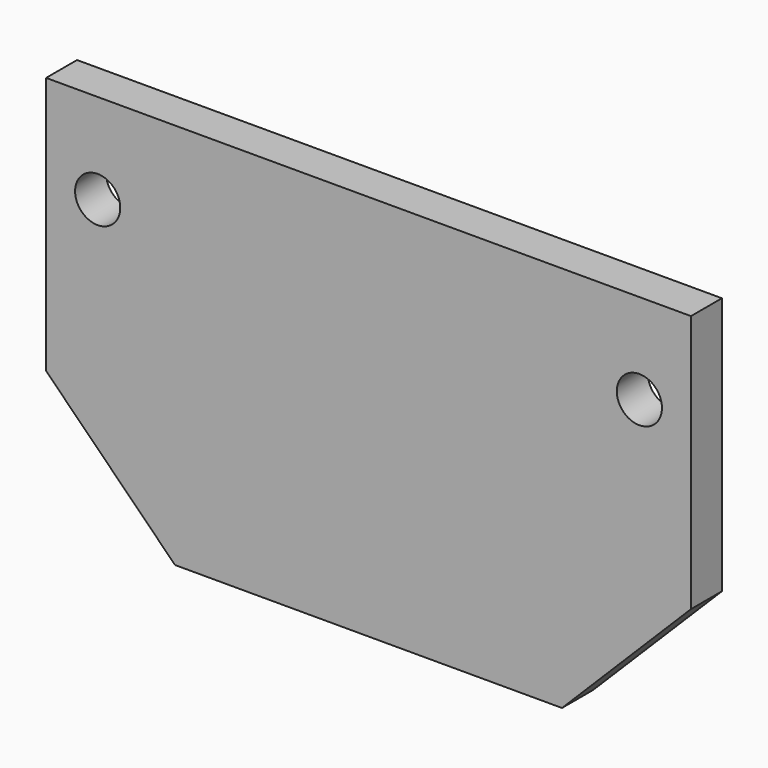
from build123d import *

# Parameters (mm, degrees)
F0_W     = 100
F0_H     = 40
F1_DEPTH = 6
F2_R     = 3.5
F3_DEPTH = 6.001


with BuildPart() as f1:
    # F0 (on Front) → F1 (new body)
    with BuildSketch(Plane.XZ):
        with Locations((50, 20)):
            Rectangle(F0_W, F0_H)
        Polygon((100, 0), (0, 0), (20, -20), (80, -20), align=None)
    extrude(amount=F1_DEPTH)

    # F2 (on face) → F3 (cut, through all)
    with BuildSketch(Plane.XZ.offset(6)):
        with Locations((8, 26)):
            Circle(F2_R)
        with Locations((92, 26)):
            Circle(F2_R)
    extrude(amount=-F3_DEPTH, mode=Mode.SUBTRACT)


solid = f1.part
